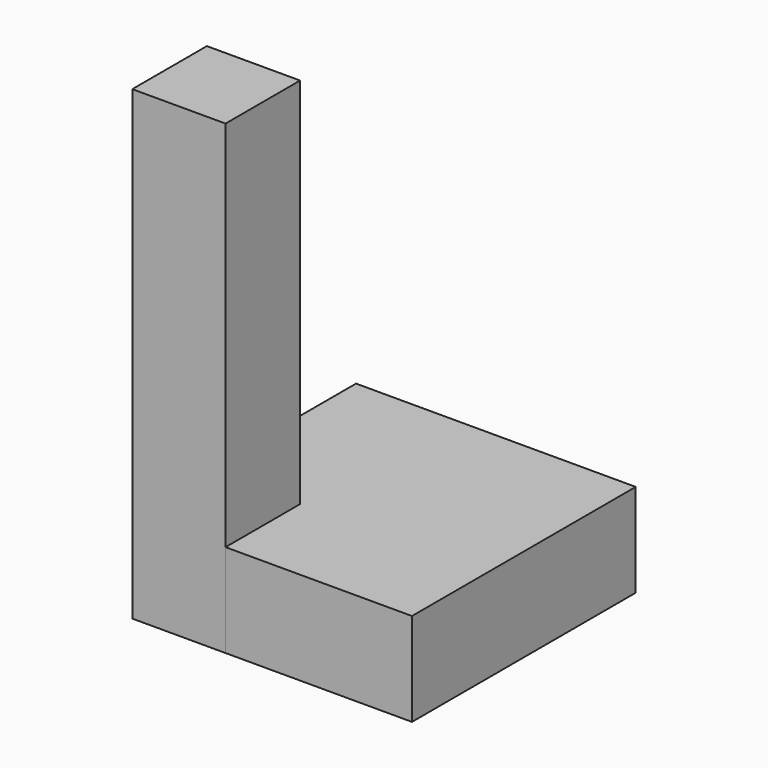
from build123d import *

# Parameters (mm, degrees)
BOX_W        = 30
BOX_H        = 30
BOX_DEPTH    = 10
BOX001_W     = 10
BOX001_H     = 10
BOX001_DEPTH = 50


with BuildPart() as cube:
    # Box → Box (new body)
    with BuildSketch(Plane.XY):
        with Locations((15, 15)):
            Rectangle(BOX_W, BOX_H)
    extrude(amount=BOX_DEPTH)


with BuildPart() as cube001:
    # Box001 → Box001 (new body)
    with BuildSketch(Plane.XY):
        with Locations((5, 5)):
            Rectangle(BOX001_W, BOX001_H)
    extrude(amount=BOX001_DEPTH)


solid = Compound([cube.part, cube001.part])
